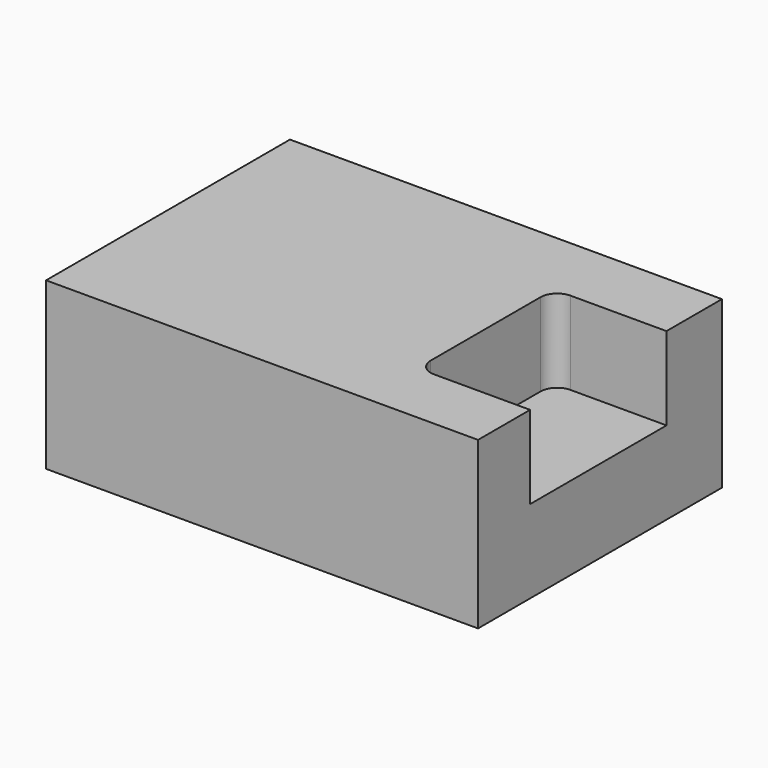
from build123d import *

# Parameters (mm, degrees)
F0_W     = 130.100816
F0_H     = 91.814518
F1_DEPTH = 50
F2_W     = 33.931456
F2_H     = 51.350809
F3_DEPTH = 25
F4_R     = 5


with BuildPart() as f1:
    # F0 (on Top) → F1 (new body)
    with BuildSketch(Plane.XY):
        with Locations((-0.272177, 1.814514)):
            Rectangle(F0_W, F0_H)
    extrude(amount=F1_DEPTH)

    # F2 (on face) → F3 (cut)
    with BuildSketch(Plane.XY.offset(50)):
        with Locations((47.812503, 1.179434)):
            Rectangle(F2_W, F2_H)
    extrude(amount=-F3_DEPTH, mode=Mode.SUBTRACT)

    # F4
    f4_edges = [f1.edges().sort_by_distance(p)[0] for p in [
        (30.846775, 26.854839, 37.5),
        (30.846775, -24.49597, 37.5),
    ]]
    fillet(f4_edges, radius=F4_R)


solid = f1.part
